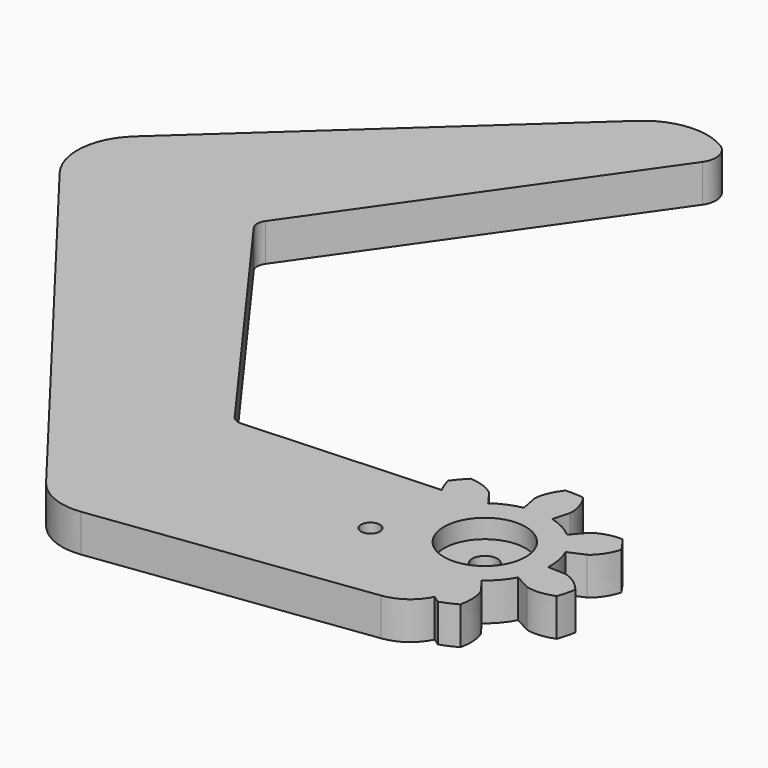
from build123d import *

# Parameters (mm, degrees)
PAD_DEPTH                                 = 3
EXTRUDE_DEPTH                             = 3
EXTRUDE_ONTO_INVOLUTEGEAR_PLACEMENT_ANGLE = -15
SKETCH001_R                               = 3.25
POCKET_DEPTH                              = 1.5
SKETCH002_R                               = 1
POCKET001_DEPTH                           = 3.001
SKETCH003_R                               = 0.75
POCKET002_DEPTH                           = 3.001


with BuildPart() as claw_body:
    # Sketch → Pad (new body)
    with BuildSketch(Plane.XY):
        with BuildLine():
            ThreePointArc((2.197615, -4.7128), (3.983431, 3.342496), (-4.259591, 2.982597))
            Line((-5.488319, 3.842962), (-4.259591, 2.982597))
            Line((-5.488319, 3.842962), (-21.76598, 2.989886))
            ThreePointArc((-22.627333, 3.40073), (-22.248827, 3.08593), (-21.76598, 2.989886))
            Line((-22.627333, 3.40073), (-37.615857, 24.030664))
            ThreePointArc((-37.625992, 25.192025), (-37.806802, 24.609722), (-37.615857, 24.030664))
            Line((-37.625992, 25.192025), (-21.393779, 48.374028))
            ThreePointArc((-21.393779, 48.374028), (-21.125112, 49.710122), (-21.924071, 50.814201))
            ThreePointArc((-21.924071, 50.814201), (-25.071791, 51.496726), (-28.008332, 50.173585))
            Line((-28.008332, 50.173585), (-51.085112, 29.027611))
            ThreePointArc((-51.085112, 29.027611), (-52.688135, 25.777003), (-51.673928, 22.297417))
            Line((-51.673928, 22.297417), (-26.288576, -10.785417))
            ThreePointArc((-26.288576, -10.785417), (-24.440562, -12.203448), (-22.131119, -12.507492))
            Line((-22.131119, -12.507492), (-0.517621, -9.662021))
            ThreePointArc((-0.517621, -9.662021), (2.094081, -7.875425), (2.197615, -4.7128))
        make_face()
    extrude(amount=PAD_DEPTH)


with BuildPart() as horn_drill:
    # InvoluteGear as drawn → Extrude (new)
    with BuildSketch(Plane.XY):
        with BuildLine():
            Line((4.810602, -1.107072), (6.405135, -1.472675))
            add(Edge.make_bspline(
                [(6.405135, -1.472675), (6.508382, -1.483345), (6.922829, -1.512197), (7.670072, -1.341281), (8.519169, -0.723794)],
                knots=[0, 0, 0, 0, 0, 1, 1, 1, 1, 1], degree=4))
            ThreePointArc((8.519169, -0.723794), (8.54986, 0), (8.519169, 0.723794))
            add(Edge.make_bspline(
                [(8.519169, 0.723794), (7.670072, 1.341281), (6.922829, 1.512197), (6.508382, 1.483345), (6.405135, 1.472675)],
                knots=[0, 0, 0, 0, 0, 1, 1, 1, 1, 1], degree=4))
            Line((6.405135, 1.472675), (4.810602, 1.107072))
            ThreePointArc((4.810602, 1.107072), (4.31977, 1.170473), (3.988644, 1.538293))
            ThreePointArc((3.988644, 1.538293), (3.851642, 1.854853), (3.689565, 2.159338))
            ThreePointArc((3.689565, 2.159338), (3.608445, 2.647554), (3.864905, 3.070832))
            Line((3.864905, 3.070832), (5.14492, 4.089539))
            add(Edge.make_bspline(
                [(5.14492, 4.089539), (5.217636, 4.163608), (5.498597, 4.469646), (5.830867, 5.160429), (5.8775, 6.209276)],
                knots=[0, 0, 0, 0, 0, 1, 1, 1, 1, 1], degree=4))
            ThreePointArc((5.8775, 6.209276), (5.330751, 6.68455), (4.74573, 7.111832))
            add(Edge.make_bspline(
                [(4.74573, 7.111832), (3.733556, 6.832978), (3.13403, 6.355326), (2.898184, 6.013309), (2.842153, 5.925934)],
                knots=[0, 0, 0, 0, 0, 1, 1, 1, 1, 1], degree=4))
            Line((2.842153, 5.925934), (2.133817, 4.451328))
            ThreePointArc((2.133817, 4.451328), (1.77822, 4.10711), (1.284193, 4.077557))
            ThreePointArc((1.284193, 4.077557), (0.951277, 4.167817), (0.612168, 4.230943))
            ThreePointArc((0.612168, 4.230943), (0.179887, 4.471919), (0.008856, 4.936337))
            Line((0.008856, 4.936337), (0.010475, 6.572246))
            add(Edge.make_bspline(
                [(0.010475, 6.572246), (-0.002097, 6.675279), (-0.066191, 7.085755), (-0.3991, 7.77623), (-1.190047, 8.466635)],
                knots=[0, 0, 0, 0, 0, 1, 1, 1, 1, 1], degree=4))
            ThreePointArc((-1.190047, 8.466635), (-1.902523, 8.335497), (-2.60134, 8.144516))
            add(Edge.make_bspline(
                [(-2.60134, 8.144516), (-3.014403, 7.179304), (-3.014758, 6.412764), (-2.894406, 6.015128), (-2.861029, 5.916844)],
                knots=[0, 0, 0, 0, 0, 1, 1, 1, 1, 1], degree=4))
            Line((-2.861029, 5.916844), (-2.149775, 4.443643))
            ThreePointArc((-2.149775, 4.443643), (-2.102366, 3.951009), (-2.387281, 3.546338))
            ThreePointArc((-2.387281, 3.546338), (-2.665419, 3.34233), (-2.926204, 3.116562))
            ThreePointArc((-2.926204, 3.116562), (-3.384129, 2.928837), (-3.853862, 3.08468))
            Line((-3.853862, 3.08468), (-5.131858, 4.105918))
            add(Edge.make_bspline(
                [(-5.131858, 4.105918), (-5.220251, 4.160329), (-5.581136, 4.366146), (-6.328536, 4.536371), (-7.361464, 4.348444)],
                knots=[0, 0, 0, 0, 0, 1, 1, 1, 1, 1], degree=4))
            ThreePointArc((-7.361464, 4.348444), (-7.703158, 3.709645), (-7.989548, 3.044213))
            add(Edge.make_bspline(
                [(-7.989548, 3.044213), (-7.492456, 2.119467), (-6.893372, 1.64126), (-6.507449, 1.487434), (-6.409797, 1.45225)],
                knots=[0, 0, 0, 0, 0, 1, 1, 1, 1, 1], degree=4))
            Line((-6.409797, 1.45225), (-4.814543, 1.089804))
            ThreePointArc((-4.814543, 1.089804), (-4.399827, 0.819718), (-4.261084, 0.344654))
            ThreePointArc((-4.261084, 0.344654), (-4.275, 0), (-4.261084, -0.344654))
            ThreePointArc((-4.261084, -0.344654), (-4.399827, -0.819718), (-4.814543, -1.089804))
            Line((-4.814543, -1.089804), (-6.409797, -1.45225))
            add(Edge.make_bspline(
                [(-6.409797, -1.45225), (-6.507449, -1.487434), (-6.893372, -1.64126), (-7.492456, -2.119467), (-7.989548, -3.044213)],
                knots=[0, 0, 0, 0, 0, 1, 1, 1, 1, 1], degree=4))
            ThreePointArc((-7.989548, -3.044213), (-7.703158, -3.709645), (-7.361464, -4.348444))
            add(Edge.make_bspline(
                [(-7.361464, -4.348444), (-6.328536, -4.536371), (-5.581136, -4.366146), (-5.220251, -4.160329), (-5.131858, -4.105918)],
                knots=[0, 0, 0, 0, 0, 1, 1, 1, 1, 1], degree=4))
            Line((-5.131858, -4.105918), (-3.853862, -3.08468))
            ThreePointArc((-3.853862, -3.08468), (-3.384129, -2.928837), (-2.926204, -3.116562))
            ThreePointArc((-2.926204, -3.116562), (-2.665419, -3.34233), (-2.387281, -3.546338))
            ThreePointArc((-2.387281, -3.546338), (-2.102366, -3.951009), (-2.149775, -4.443643))
            Line((-2.149775, -4.443643), (-2.861029, -5.916844))
            add(Edge.make_bspline(
                [(-2.861029, -5.916844), (-2.894406, -6.015128), (-3.014758, -6.412764), (-3.014403, -7.179304), (-2.60134, -8.144516)],
                knots=[0, 0, 0, 0, 0, 1, 1, 1, 1, 1], degree=4))
            ThreePointArc((-2.60134, -8.144516), (-1.902523, -8.335497), (-1.190047, -8.466635))
            add(Edge.make_bspline(
                [(-1.190047, -8.466635), (-0.3991, -7.77623), (-0.066191, -7.085755), (-0.002097, -6.675279), (0.010475, -6.572246)],
                knots=[0, 0, 0, 0, 0, 1, 1, 1, 1, 1], degree=4))
            Line((0.010475, -6.572246), (0.008856, -4.936337))
            ThreePointArc((0.008856, -4.936337), (0.179887, -4.471919), (0.612168, -4.230943))
            ThreePointArc((0.612168, -4.230943), (0.951277, -4.167817), (1.284193, -4.077557))
            ThreePointArc((1.284193, -4.077557), (1.77822, -4.10711), (2.133817, -4.451328))
            Line((2.133817, -4.451328), (2.842153, -5.925934))
            add(Edge.make_bspline(
                [(2.842153, -5.925934), (2.898184, -6.013309), (3.13403, -6.355326), (3.733556, -6.832978), (4.74573, -7.111832)],
                knots=[0, 0, 0, 0, 0, 1, 1, 1, 1, 1], degree=4))
            ThreePointArc((4.74573, -7.111832), (5.330751, -6.68455), (5.8775, -6.209276))
            add(Edge.make_bspline(
                [(5.8775, -6.209276), (5.830867, -5.160429), (5.498597, -4.469646), (5.217636, -4.163608), (5.14492, -4.089539)],
                knots=[0, 0, 0, 0, 0, 1, 1, 1, 1, 1], degree=4))
            Line((5.14492, -4.089539), (3.864905, -3.070832))
            ThreePointArc((3.864905, -3.070832), (3.608445, -2.647554), (3.689565, -2.159338))
            ThreePointArc((3.689565, -2.159338), (3.851642, -1.854853), (3.988644, -1.538293))
            ThreePointArc((3.988644, -1.538293), (4.31977, -1.170473), (4.810602, -1.107072))
        make_face()
    extrude(amount=EXTRUDE_DEPTH)


with BuildPart() as horn_drill_1:
    # Extrude onto InvoluteGear placement: moved
    add(horn_drill.part.rotate(Axis((0, 0, 0), (0, 0, 1)), EXTRUDE_ONTO_INVOLUTEGEAR_PLACEMENT_ANGLE))

    # Fusion: union claw-body
    add(claw_body.part)

    # Sketch001 → Pocket (cut)
    with BuildSketch(Plane.XY.offset(3)):
        Circle(SKETCH001_R)
    extrude(amount=-POCKET_DEPTH, mode=Mode.SUBTRACT)

    # Sketch002 → Pocket001 (cut, through all)
    with BuildSketch(Plane(origin=(0, 0, 0), x_dir=(1, 0, 0), z_dir=(0, 0, -1))):
        Circle(SKETCH002_R)
    extrude(amount=-POCKET001_DEPTH, mode=Mode.SUBTRACT)

    # Sketch003 → Pocket002 (cut, through all)
    with BuildSketch(Plane.XY.offset(3)):
        with Locations((-6.714559, -2.989514)):
            Circle(SKETCH003_R)
    extrude(amount=-POCKET002_DEPTH, mode=Mode.SUBTRACT)


solid = horn_drill_1.part
